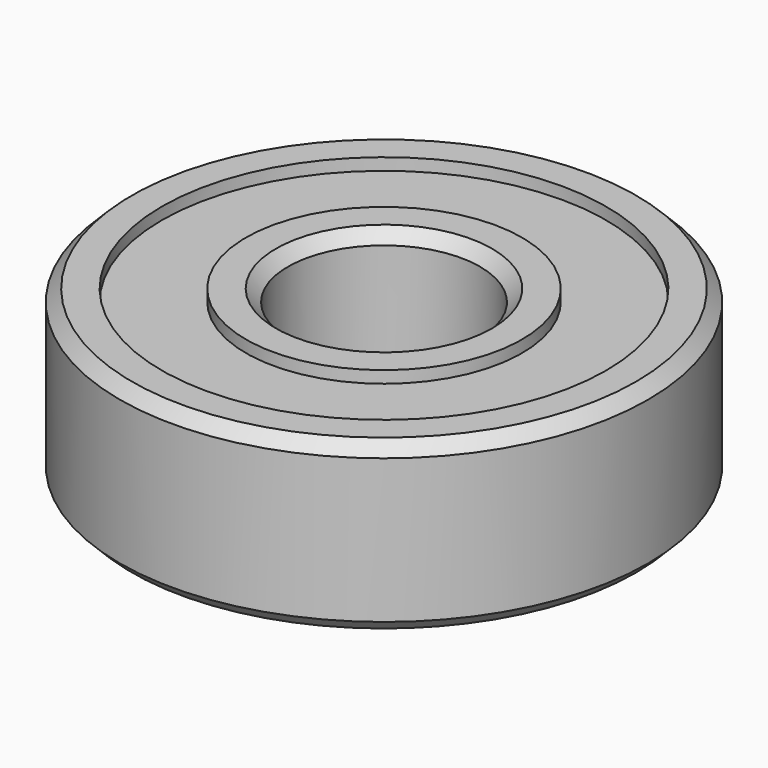
from build123d import *

# Parameters (mm, degrees)
F0_R     = 11
F0_R_2   = 4
F1_DEPTH = 3.5
F2_SIZE  = 0.5
F3_W     = 3.5
F3_H     = 0.5
F3_H_2   = 1


with BuildPart() as f1:
    # F0 (on Top) → F1 (new body, symmetric)
    with BuildSketch(Plane.XY):
        Circle(F0_R)
        Circle(F0_R_2, mode=Mode.SUBTRACT)
    extrude(amount=F1_DEPTH, both=True)

    # F2
    f2_edges = [f1.edges().sort_by_distance(p)[0] for p in [
        (-11, 0, 3.5),
        (-11, 0, -3.5),
        (-4, 0, 3.5),
        (-4, 0, -3.5),
    ]]
    chamfer(f2_edges, length=F2_SIZE)

    # F3 (on Right) → F4 (revolve, cut)
    with BuildSketch(Plane.YZ):
        with Locations((7.5, 3.75)):
            Rectangle(F3_W, F3_H)
        with Locations((7.5, 3.25)):
            Rectangle(F3_W, F3_H)
        with Locations((7.5, -3.5)):
            Rectangle(F3_W, F3_H_2)
    revolve(axis=Axis((0, 0, 3.5), (0, 0, 1)), mode=Mode.SUBTRACT)


solid = f1.part
